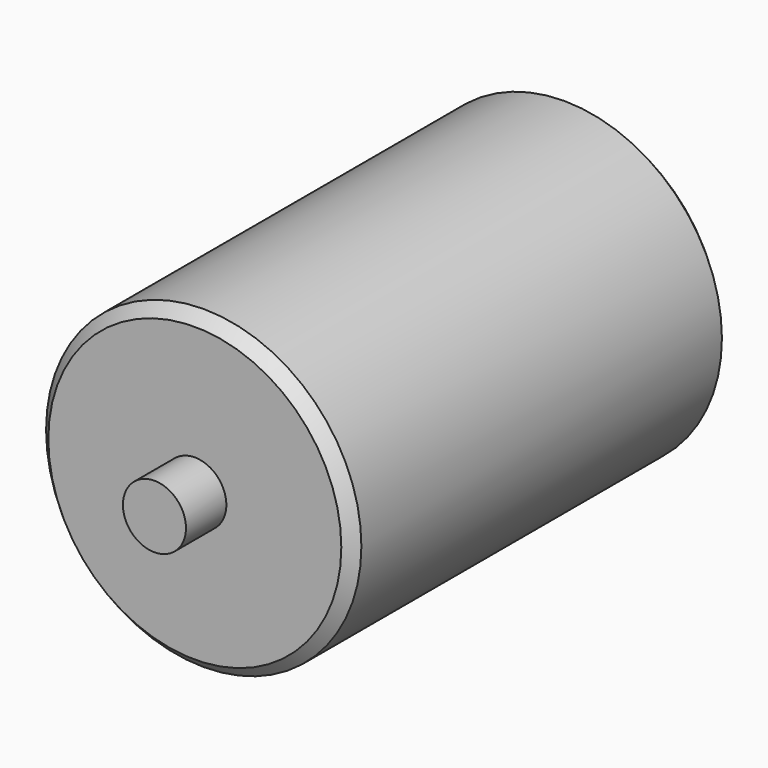
from build123d import *

# Parameters (mm, degrees)
F0_W = 10
F0_H = 16


with BuildPart() as f1:
    # F0 (on Top) → F1 (revolve)
    with BuildSketch(Plane.XY):
        with Locations((-60.000899, 133.775802)):
            Rectangle(F0_W, F0_H)
        Polygon((-65.000899, 125.775802), (-101.465365, 125.775802), (-105.000899, 122.240268), (-105.000899, -20.688664), (-101.465365, -24.224198), (-65.000899, -24.224198), (-55.000899, -24.224198), (-55.000899, 125.775802), align=None)
        with Locations((-60.000899, -32.224198)):
            Rectangle(F0_W, F0_H)
    revolve(axis=Axis((-55.000899, -24.087594, 0), (0, -1, 0)))


solid = f1.part
